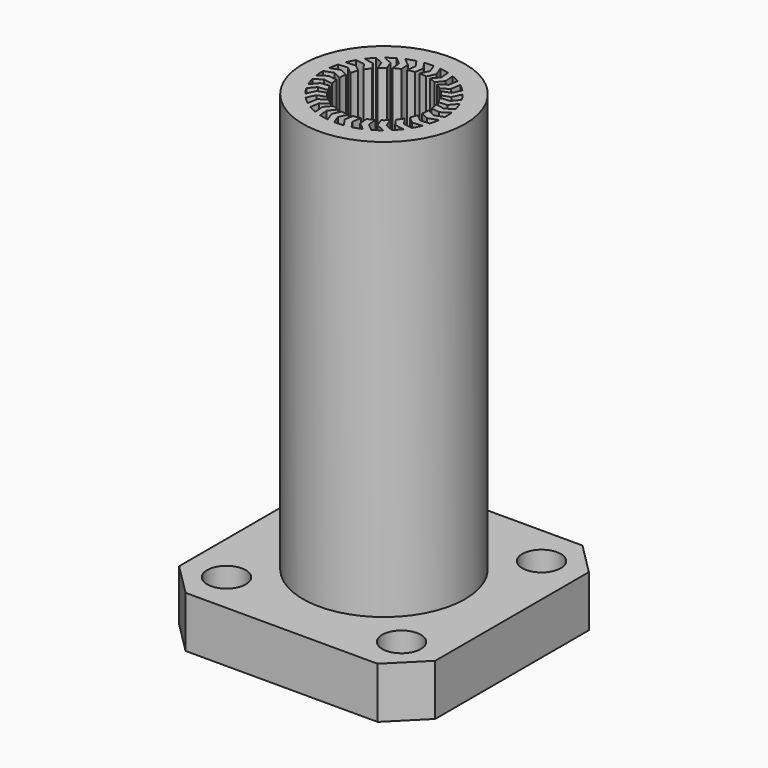
from build123d import *

# Parameters (mm, degrees)
F0_W      = 30
F0_H      = 30
F1_DEPTH  = 6
F2_SIZE   = 3.75
F4_D      = 4.525
F5_R      = 9.5
F6_DEPTH  = 49
F7_R      = 5.2
F8_DEPTH  = 55
F12_DEPTH = 55


with BuildPart() as f1:
    # F0 (on Top) → F1 (new body)
    with BuildSketch(Plane.XY):
        Rectangle(F0_W, F0_H)
    extrude(amount=F1_DEPTH)

    # F2
    f2_edges = [f1.edges().sort_by_distance(p)[0] for p in [
        (-15, -15, 3),
        (-15, 15, 3),
        (15, -15, 3),
        (15, 15, 3),
    ]]
    chamfer(f2_edges, length=F2_SIZE)

    # F4 (through all)
    with Locations(Plane(origin=(0, 0, 0), x_dir=(1, 0, 0), z_dir=(0, 0, -1))):
        with Locations((-10.2530483272, 10.2530483272), (10.2530483272, 10.2530483272), (-10.2530483272, -10.2530483272), (10.2530483272, -10.2530483272)):
            Hole(F4_D / 2)

    # F5 (on face) → F6 (join)
    with BuildSketch(Plane.XY.offset(6)):
        Circle(F5_R)
    extrude(amount=F6_DEPTH)

    # F7 (on face) → F8 (cut, through all)
    with BuildSketch(Plane.XY.offset(55)):
        Circle(F7_R)
    extrude(amount=-F8_DEPTH, mode=Mode.SUBTRACT)

    # F11 (on face) → F12 (cut, through all)
    with BuildSketch(Plane.XY.offset(55)):
        with BuildLine():
            ThreePointArc((-0.3387659464, 6.1907380524), (0.0576016005, 6.1997324181), (0.4537336041, 6.1833749536))
            Line((0.4537336041, 6.1833749536), (0.0792206143, 7.19956416))
            ThreePointArc((0.0792206143, 7.19956416), (-0.4627303992, 7.1851152098), (-1.0020578486, 7.1299284757))
            Line((-1.0020578486, 7.1299284757), (-0.3387659464, 6.1907380524))
        make_face()
        with BuildLine():
            Line((0, 5.2), (0.4537336041, 6.1833749536))
            ThreePointArc((0.4537336041, 6.1833749536), (0.0576016005, 6.1997324181), (-0.3387659464, 6.1907380524))
            Line((-0.3387659464, 6.1907380524), (-0.5137204412, 5.1745619436))
            ThreePointArc((-0.5137204412, 5.1745619436), (-0.2571749339, 5.1936365923), (0, 5.2))
        make_face()
        with BuildLine():
            ThreePointArc((1.2750581345, 6.0674728474), (1.6602476979, 5.9735732674), (2.0386482075, 5.8552466631))
            Line((2.0386482075, 5.8552466631), (1.9399055584, 6.9337411564))
            ThreePointArc((1.9399055584, 6.9337411564), (1.4126814143, 7.060051786), (0.8774477243, 7.1463337097))
            Line((0.8774477243, 7.1463337097), (1.2750581345, 6.0674728474))
        make_face()
        with BuildLine():
            Line((1.3458590345, 5.0228142967), (2.0386482075, 5.8552466631))
            ThreePointArc((2.0386482075, 5.8552466631), (1.6602476979, 5.9735732674), (1.2750581345, 6.0674728474))
            Line((1.2750581345, 6.0674728474), (0.8430593394, 5.1312036551))
            ThreePointArc((0.8430593394, 5.1312036551), (1.0958001529, 5.0832294877), (1.3458590345, 5.0228142967))
        make_face()
        with BuildLine():
            ThreePointArc((2.8019891106, 5.5307193948), (3.1497506584, 5.3403249704), (3.4846323045, 5.1280929889))
            Line((3.4846323045, 5.1280929889), (3.6683891445, 6.1953951516))
            ThreePointArc((3.6683891445, 6.1953951516), (3.1918213241, 6.4538575004), (2.6971566849, 6.6757281114))
            Line((2.6971566849, 6.6757281114), (2.8019891106, 5.5307193948))
        make_face()
        with BuildLine():
            Line((2.6, 4.5033320997), (3.4846323045, 5.1280929889))
            ThreePointArc((3.4846323045, 5.1280929889), (3.1497506584, 5.3403249704), (2.8019891106, 5.5307193948))
            Line((2.8019891106, 5.5307193948), (2.1423860193, 4.7381623172))
            ThreePointArc((2.1423860193, 4.7381623172), (2.3740982702, 4.6264086939), (2.6, 4.5033320997))
        make_face()
        with BuildLine():
            ThreePointArc((4.1379691594, 4.6170565554), (4.4246033167, 4.343142352), (4.6931444686, 4.051468252))
            Line((4.6931444686, 4.051468252), (5.1468780727, 5.0348432055))
            ThreePointArc((5.1468780727, 5.0348432055), (4.7534438853, 5.4078434916), (4.3330588746, 5.7501826744))
            Line((4.3330588746, 5.7501826744), (4.1379691594, 4.6170565554))
        make_face()
        with BuildLine():
            Line((3.6769552622, 3.6769552622), (4.6931444686, 4.051468252))
            ThreePointArc((4.6931444686, 4.051468252), (4.4246033167, 4.343142352), (4.1379691594, 4.6170565554))
            Line((4.1379691594, 4.6170565554), (3.2957126324, 4.0222230476))
            ThreePointArc((3.2957126324, 4.0222230476), (3.4906055138, 3.8543057932), (3.6769552622, 3.6769552622))
        make_face()
        with BuildLine():
            ThreePointArc((5.1919534483, 3.3887489418), (5.397926571, 3.0499817597), (5.581826593, 2.6987426491))
            Line((5.581826593, 2.6987426491), (6.2746157659, 3.5311750155))
            ThreePointArc((6.2746157659, 3.5311750155), (5.9911271012, 3.9932938857), (5.6736702628, 4.4327717908))
            Line((5.6736702628, 4.4327717908), (5.1919534483, 3.3887489418))
        make_face()
        with BuildLine():
            Line((4.5033320997, 2.6), (5.581826593, 2.6987426491))
            ThreePointArc((5.581826593, 2.6987426491), (5.397926571, 3.0499817597), (5.1919534483, 3.3887489418))
            Line((5.1919534483, 3.3887489418), (4.224441876, 3.0321759243))
            ThreePointArc((4.224441876, 3.0321759243), (4.3692337601, 2.8195383221), (4.5033320997, 2.6))
        make_face()
        with BuildLine():
            ThreePointArc((5.8921146898, 1.9295036879), (6.0033900499, 1.5489699507), (6.0901164594, 1.1621021945))
            Line((6.0901164594, 1.1621021945), (6.9747487639, 1.7868630837))
            ThreePointArc((6.9747487639, 1.7868630837), (6.8205249059, 2.3066079008), (6.6276303987, 2.8132748351))
            Line((6.6276303987, 2.8132748351), (5.8921146898, 1.9295036879))
        make_face()
        with BuildLine():
            Line((5.0228142967, 1.3458590345), (6.0901164594, 1.1621021945))
            ThreePointArc((6.0901164594, 1.1621021945), (6.0033900499, 1.5489699507), (5.8921146898, 1.9295036879))
            Line((5.8921146898, 1.9295036879), (4.865282387, 1.8354910227))
            ThreePointArc((4.865282387, 1.8354910227), (4.9501059461, 1.5926239739), (5.0228142967, 1.3458590345))
        make_face()
        with BuildLine():
            ThreePointArc((6.1907380524, 0.3387659464), (6.1976840806, 0.1694462674), (6.2, 0))
            ThreePointArc((6.2, 0), (6.1958423444, -0.2270190387), (6.1833749536, -0.4537336041))
            Line((6.1833749536, -0.4537336041), (7.19956416, -0.0792206143))
            ThreePointArc((7.19956416, -0.0792206143), (7.1998910392, -0.0396109066), (7.2, 0))
            ThreePointArc((7.2, 0), (7.1824607561, 0.5022524142), (7.1299284757, 1.0020578486))
            Line((7.1299284757, 1.0020578486), (6.1907380524, 0.3387659464))
        make_face()
        with BuildLine():
            ThreePointArc((6.1833749536, -0.4537336041), (6.1958423444, -0.2270190387), (6.2, 0))
            ThreePointArc((6.2, 0), (6.1976840806, 0.1694462674), (6.1907380524, 0.3387659464))
            Line((6.1907380524, 0.3387659464), (5.1745619436, 0.5137204412))
            ThreePointArc((5.1745619436, 0.5137204412), (5.1936365923, 0.2571749339), (5.2, 0))
            Line((5.2, 0), (6.1833749536, -0.4537336041))
        make_face()
        with BuildLine():
            ThreePointArc((5.8552466631, -2.0386482075), (5.9735732674, -1.6602476979), (6.0674728474, -1.2750581345))
            Line((6.0674728474, -1.2750581345), (5.1312036551, -0.8430593394))
            ThreePointArc((5.1312036551, -0.8430593394), (5.0832294877, -1.0958001529), (5.0228142967, -1.3458590345))
            Line((5.0228142967, -1.3458590345), (5.8552466631, -2.0386482075))
        make_face()
        with BuildLine():
            Line((7.1463337097, -0.8774477243), (6.0674728474, -1.2750581345))
            ThreePointArc((6.0674728474, -1.2750581345), (5.9735732674, -1.6602476979), (5.8552466631, -2.0386482075))
            Line((5.8552466631, -2.0386482075), (6.9337411564, -1.9399055584))
            ThreePointArc((6.9337411564, -1.9399055584), (7.060051786, -1.4126814143), (7.1463337097, -0.8774477243))
        make_face()
        with BuildLine():
            ThreePointArc((5.1280929889, -3.4846323045), (5.3403249704, -3.1497506584), (5.5307193948, -2.8019891106))
            Line((5.5307193948, -2.8019891106), (4.7381623172, -2.1423860193))
            ThreePointArc((4.7381623172, -2.1423860193), (4.6264086939, -2.3740982702), (4.5033320997, -2.6))
            Line((4.5033320997, -2.6), (5.1280929889, -3.4846323045))
        make_face()
        with BuildLine():
            Line((6.6757281114, -2.6971566849), (5.5307193948, -2.8019891106))
            ThreePointArc((5.5307193948, -2.8019891106), (5.3403249704, -3.1497506584), (5.1280929889, -3.4846323045))
            Line((5.1280929889, -3.4846323045), (6.1953951516, -3.6683891445))
            ThreePointArc((6.1953951516, -3.6683891445), (6.4538575004, -3.1918213241), (6.6757281114, -2.6971566849))
        make_face()
        with BuildLine():
            ThreePointArc((4.051468252, -4.6931444686), (4.343142352, -4.4246033167), (4.6170565554, -4.1379691594))
            Line((4.6170565554, -4.1379691594), (4.0222230476, -3.2957126324))
            ThreePointArc((4.0222230476, -3.2957126324), (3.8543057932, -3.4906055138), (3.6769552622, -3.6769552622))
            Line((3.6769552622, -3.6769552622), (4.051468252, -4.6931444686))
        make_face()
        with BuildLine():
            Line((5.7501826744, -4.3330588746), (4.6170565554, -4.1379691594))
            ThreePointArc((4.6170565554, -4.1379691594), (4.343142352, -4.4246033167), (4.051468252, -4.6931444686))
            Line((4.051468252, -4.6931444686), (5.0348432055, -5.1468780727))
            ThreePointArc((5.0348432055, -5.1468780727), (5.4078434916, -4.7534438853), (5.7501826744, -4.3330588746))
        make_face()
        with BuildLine():
            ThreePointArc((2.6987426491, -5.581826593), (3.0499817597, -5.397926571), (3.3887489418, -5.1919534483))
            Line((3.3887489418, -5.1919534483), (3.0321759243, -4.224441876))
            ThreePointArc((3.0321759243, -4.224441876), (2.8195383221, -4.3692337601), (2.6, -4.5033320997))
            Line((2.6, -4.5033320997), (2.6987426491, -5.581826593))
        make_face()
        with BuildLine():
            Line((4.4327717908, -5.6736702628), (3.3887489418, -5.1919534483))
            ThreePointArc((3.3887489418, -5.1919534483), (3.0499817597, -5.397926571), (2.6987426491, -5.581826593))
            Line((2.6987426491, -5.581826593), (3.5311750155, -6.2746157659))
            ThreePointArc((3.5311750155, -6.2746157659), (3.9932938857, -5.9911271012), (4.4327717908, -5.6736702628))
        make_face()
        with BuildLine():
            ThreePointArc((1.1621021945, -6.0901164594), (1.5489699507, -6.0033900499), (1.9295036879, -5.8921146898))
            Line((1.9295036879, -5.8921146898), (1.8354910227, -4.865282387))
            ThreePointArc((1.8354910227, -4.865282387), (1.5926239739, -4.9501059461), (1.3458590345, -5.0228142967))
            Line((1.3458590345, -5.0228142967), (1.1621021945, -6.0901164594))
        make_face()
        with BuildLine():
            Line((2.8132748351, -6.6276303987), (1.9295036879, -5.8921146898))
            ThreePointArc((1.9295036879, -5.8921146898), (1.5489699507, -6.0033900499), (1.1621021945, -6.0901164594))
            Line((1.1621021945, -6.0901164594), (1.7868630837, -6.9747487639))
            ThreePointArc((1.7868630837, -6.9747487639), (2.3066079008, -6.8205249059), (2.8132748351, -6.6276303987))
        make_face()
        with BuildLine():
            ThreePointArc((-0.4537336041, -6.1833749536), (-0.0576016005, -6.1997324181), (0.3387659464, -6.1907380524))
            Line((0.3387659464, -6.1907380524), (0.5137204412, -5.1745619436))
            ThreePointArc((0.5137204412, -5.1745619436), (0.2571749339, -5.1936365923), (0, -5.2))
            Line((0, -5.2), (-0.4537336041, -6.1833749536))
        make_face()
        with BuildLine():
            Line((1.0020578486, -7.1299284757), (0.3387659464, -6.1907380524))
            ThreePointArc((0.3387659464, -6.1907380524), (-0.0576016005, -6.1997324181), (-0.4537336041, -6.1833749536))
            Line((-0.4537336041, -6.1833749536), (-0.0792206143, -7.19956416))
            ThreePointArc((-0.0792206143, -7.19956416), (0.4627303992, -7.1851152098), (1.0020578486, -7.1299284757))
        make_face()
        with BuildLine():
            ThreePointArc((-2.0386482075, -5.8552466631), (-1.6602476979, -5.9735732674), (-1.2750581345, -6.0674728474))
            Line((-1.2750581345, -6.0674728474), (-0.8430593394, -5.1312036551))
            ThreePointArc((-0.8430593394, -5.1312036551), (-1.0958001529, -5.0832294877), (-1.3458590345, -5.0228142967))
            Line((-1.3458590345, -5.0228142967), (-2.0386482075, -5.8552466631))
        make_face()
        with BuildLine():
            Line((-0.8774477243, -7.1463337097), (-1.2750581345, -6.0674728474))
            ThreePointArc((-1.2750581345, -6.0674728474), (-1.6602476979, -5.9735732674), (-2.0386482075, -5.8552466631))
            Line((-2.0386482075, -5.8552466631), (-1.9399055584, -6.9337411564))
            ThreePointArc((-1.9399055584, -6.9337411564), (-1.4126814143, -7.060051786), (-0.8774477243, -7.1463337097))
        make_face()
        with BuildLine():
            ThreePointArc((-3.4846323045, -5.1280929889), (-3.1497506584, -5.3403249704), (-2.8019891106, -5.5307193948))
            Line((-2.8019891106, -5.5307193948), (-2.1423860193, -4.7381623172))
            ThreePointArc((-2.1423860193, -4.7381623172), (-2.3740982702, -4.6264086939), (-2.6, -4.5033320997))
            Line((-2.6, -4.5033320997), (-3.4846323045, -5.1280929889))
        make_face()
        with BuildLine():
            Line((-2.6971566849, -6.6757281114), (-2.8019891106, -5.5307193948))
            ThreePointArc((-2.8019891106, -5.5307193948), (-3.1497506584, -5.3403249704), (-3.4846323045, -5.1280929889))
            Line((-3.4846323045, -5.1280929889), (-3.6683891445, -6.1953951516))
            ThreePointArc((-3.6683891445, -6.1953951516), (-3.1918213241, -6.4538575004), (-2.6971566849, -6.6757281114))
        make_face()
        with BuildLine():
            ThreePointArc((-4.6931444686, -4.051468252), (-4.4246033167, -4.343142352), (-4.1379691594, -4.6170565554))
            Line((-4.1379691594, -4.6170565554), (-3.2957126324, -4.0222230476))
            ThreePointArc((-3.2957126324, -4.0222230476), (-3.4906055138, -3.8543057932), (-3.6769552622, -3.6769552622))
            Line((-3.6769552622, -3.6769552622), (-4.6931444686, -4.051468252))
        make_face()
        with BuildLine():
            Line((-4.3330588746, -5.7501826744), (-4.1379691594, -4.6170565554))
            ThreePointArc((-4.1379691594, -4.6170565554), (-4.4246033167, -4.343142352), (-4.6931444686, -4.051468252))
            Line((-4.6931444686, -4.051468252), (-5.1468780727, -5.0348432055))
            ThreePointArc((-5.1468780727, -5.0348432055), (-4.7534438853, -5.4078434916), (-4.3330588746, -5.7501826744))
        make_face()
        with BuildLine():
            ThreePointArc((-5.581826593, -2.6987426491), (-5.397926571, -3.0499817597), (-5.1919534483, -3.3887489418))
            Line((-5.1919534483, -3.3887489418), (-4.224441876, -3.0321759243))
            ThreePointArc((-4.224441876, -3.0321759243), (-4.3692337601, -2.8195383221), (-4.5033320997, -2.6))
            Line((-4.5033320997, -2.6), (-5.581826593, -2.6987426491))
        make_face()
        with BuildLine():
            Line((-5.6736702628, -4.4327717908), (-5.1919534483, -3.3887489418))
            ThreePointArc((-5.1919534483, -3.3887489418), (-5.397926571, -3.0499817597), (-5.581826593, -2.6987426491))
            Line((-5.581826593, -2.6987426491), (-6.2746157659, -3.5311750155))
            ThreePointArc((-6.2746157659, -3.5311750155), (-5.9911271012, -3.9932938857), (-5.6736702628, -4.4327717908))
        make_face()
        with BuildLine():
            ThreePointArc((-6.0901164594, -1.1621021945), (-6.0033900499, -1.5489699507), (-5.8921146898, -1.9295036879))
            Line((-5.8921146898, -1.9295036879), (-4.865282387, -1.8354910227))
            ThreePointArc((-4.865282387, -1.8354910227), (-4.9501059461, -1.5926239739), (-5.0228142967, -1.3458590345))
            Line((-5.0228142967, -1.3458590345), (-6.0901164594, -1.1621021945))
        make_face()
        with BuildLine():
            Line((-6.6276303987, -2.8132748351), (-5.8921146898, -1.9295036879))
            ThreePointArc((-5.8921146898, -1.9295036879), (-6.0033900499, -1.5489699507), (-6.0901164594, -1.1621021945))
            Line((-6.0901164594, -1.1621021945), (-6.9747487639, -1.7868630837))
            ThreePointArc((-6.9747487639, -1.7868630837), (-6.8205249059, -2.3066079008), (-6.6276303987, -2.8132748351))
        make_face()
        with BuildLine():
            ThreePointArc((-6.1907380524, -0.3387659464), (-6.1997324181, 0.0576016005), (-6.1833749536, 0.4537336041))
            Line((-6.1833749536, 0.4537336041), (-7.19956416, 0.0792206143))
            ThreePointArc((-7.19956416, 0.0792206143), (-7.1851152098, -0.4627303992), (-7.1299284757, -1.0020578486))
            Line((-7.1299284757, -1.0020578486), (-6.1907380524, -0.3387659464))
        make_face()
        with BuildLine():
            Line((-5.2, 0), (-6.1833749536, 0.4537336041))
            ThreePointArc((-6.1833749536, 0.4537336041), (-6.1997324181, 0.0576016005), (-6.1907380524, -0.3387659464))
            Line((-6.1907380524, -0.3387659464), (-5.1745619436, -0.5137204412))
            ThreePointArc((-5.1745619436, -0.5137204412), (-5.1936365923, -0.2571749339), (-5.2, 0))
        make_face()
        with BuildLine():
            ThreePointArc((-6.0674728474, 1.2750581345), (-5.9735732674, 1.6602476979), (-5.8552466631, 2.0386482075))
            Line((-5.8552466631, 2.0386482075), (-6.9337411564, 1.9399055584))
            ThreePointArc((-6.9337411564, 1.9399055584), (-7.060051786, 1.4126814143), (-7.1463337097, 0.8774477243))
            Line((-7.1463337097, 0.8774477243), (-6.0674728474, 1.2750581345))
        make_face()
        with BuildLine():
            Line((-5.0228142967, 1.3458590345), (-5.8552466631, 2.0386482075))
            ThreePointArc((-5.8552466631, 2.0386482075), (-5.9735732674, 1.6602476979), (-6.0674728474, 1.2750581345))
            Line((-6.0674728474, 1.2750581345), (-5.1312036551, 0.8430593394))
            ThreePointArc((-5.1312036551, 0.8430593394), (-5.0832294877, 1.0958001529), (-5.0228142967, 1.3458590345))
        make_face()
        with BuildLine():
            ThreePointArc((-5.5307193948, 2.8019891106), (-5.3403249704, 3.1497506584), (-5.1280929889, 3.4846323045))
            Line((-5.1280929889, 3.4846323045), (-6.1953951516, 3.6683891445))
            ThreePointArc((-6.1953951516, 3.6683891445), (-6.4538575004, 3.1918213241), (-6.6757281114, 2.6971566849))
            Line((-6.6757281114, 2.6971566849), (-5.5307193948, 2.8019891106))
        make_face()
        with BuildLine():
            Line((-4.5033320997, 2.6), (-5.1280929889, 3.4846323045))
            ThreePointArc((-5.1280929889, 3.4846323045), (-5.3403249704, 3.1497506584), (-5.5307193948, 2.8019891106))
            Line((-5.5307193948, 2.8019891106), (-4.7381623172, 2.1423860193))
            ThreePointArc((-4.7381623172, 2.1423860193), (-4.6264086939, 2.3740982702), (-4.5033320997, 2.6))
        make_face()
        with BuildLine():
            ThreePointArc((-4.6170565554, 4.1379691594), (-4.343142352, 4.4246033167), (-4.051468252, 4.6931444686))
            Line((-4.051468252, 4.6931444686), (-5.0348432055, 5.1468780727))
            ThreePointArc((-5.0348432055, 5.1468780727), (-5.4078434916, 4.7534438853), (-5.7501826744, 4.3330588746))
            Line((-5.7501826744, 4.3330588746), (-4.6170565554, 4.1379691594))
        make_face()
        with BuildLine():
            Line((-3.6769552622, 3.6769552622), (-4.051468252, 4.6931444686))
            ThreePointArc((-4.051468252, 4.6931444686), (-4.343142352, 4.4246033167), (-4.6170565554, 4.1379691594))
            Line((-4.6170565554, 4.1379691594), (-4.0222230476, 3.2957126324))
            ThreePointArc((-4.0222230476, 3.2957126324), (-3.8543057932, 3.4906055138), (-3.6769552622, 3.6769552622))
        make_face()
        with BuildLine():
            ThreePointArc((-3.3887489418, 5.1919534483), (-3.0499817597, 5.397926571), (-2.6987426491, 5.581826593))
            Line((-2.6987426491, 5.581826593), (-3.5311750155, 6.2746157659))
            ThreePointArc((-3.5311750155, 6.2746157659), (-3.9932938857, 5.9911271012), (-4.4327717908, 5.6736702628))
            Line((-4.4327717908, 5.6736702628), (-3.3887489418, 5.1919534483))
        make_face()
        with BuildLine():
            Line((-2.6, 4.5033320997), (-2.6987426491, 5.581826593))
            ThreePointArc((-2.6987426491, 5.581826593), (-3.0499817597, 5.397926571), (-3.3887489418, 5.1919534483))
            Line((-3.3887489418, 5.1919534483), (-3.0321759243, 4.224441876))
            ThreePointArc((-3.0321759243, 4.224441876), (-2.8195383221, 4.3692337601), (-2.6, 4.5033320997))
        make_face()
        with BuildLine():
            ThreePointArc((-1.9295036879, 5.8921146898), (-1.5489699507, 6.0033900499), (-1.1621021945, 6.0901164594))
            Line((-1.1621021945, 6.0901164594), (-1.7868630837, 6.9747487639))
            ThreePointArc((-1.7868630837, 6.9747487639), (-2.3066079008, 6.8205249059), (-2.8132748351, 6.6276303987))
            Line((-2.8132748351, 6.6276303987), (-1.9295036879, 5.8921146898))
        make_face()
        with BuildLine():
            Line((-1.3458590345, 5.0228142967), (-1.1621021945, 6.0901164594))
            ThreePointArc((-1.1621021945, 6.0901164594), (-1.5489699507, 6.0033900499), (-1.9295036879, 5.8921146898))
            Line((-1.9295036879, 5.8921146898), (-1.8354910227, 4.865282387))
            ThreePointArc((-1.8354910227, 4.865282387), (-1.5926239739, 4.9501059461), (-1.3458590345, 5.0228142967))
        make_face()
    extrude(amount=-F12_DEPTH, mode=Mode.SUBTRACT)


solid = f1.part
